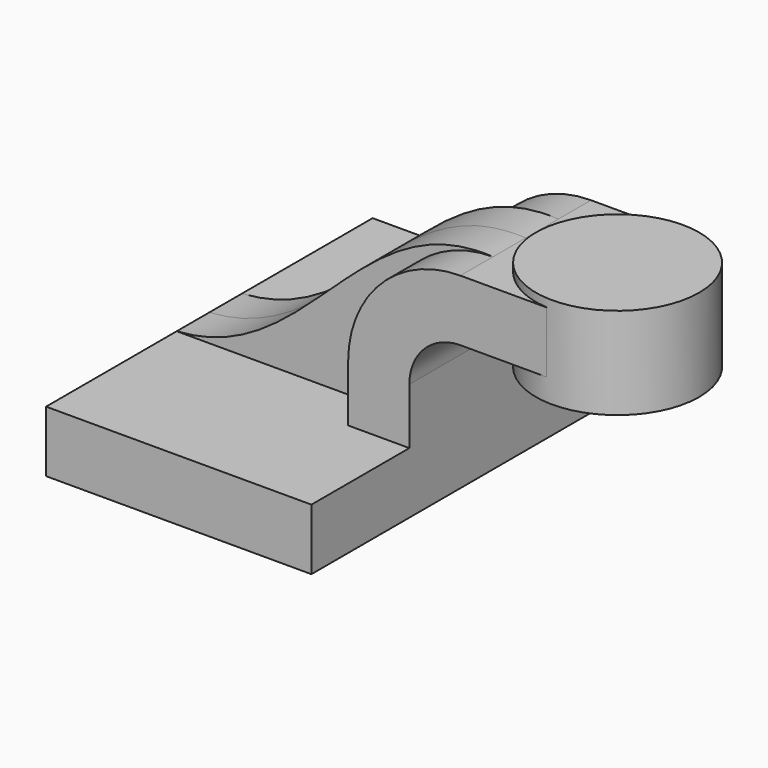
from build123d import *

# Parameters (mm, degrees)
F1_DEPTH = 63.5
F2_DEPTH = 12.7
F0_W     = 23.580307
F0_H     = 19.05
F3_DEPTH = 25.4
F0_W_2   = 25.4
F0_H_2   = 28.575


with BuildPart() as f1:
    # F0 (on Front) → F1 (new body, symmetric)
    with BuildSketch(Plane.XZ):
        Polygon((41.275, -9.525), (41.275, 9.525), (22.225, 9.525), (-41.275, 9.525), (-41.275, -9.525), align=None)
    extrude(amount=F1_DEPTH, both=True)

    # F0 (on Front) → F2 (join, symmetric)
    with BuildSketch(Plane.XZ):
        with BuildLine():
            Line((-41.275, 9.525), (22.225, 9.525))
            Line((22.225, 9.525), (22.225, 27.0002))
            ThreePointArc((22.225, 27.0002), (32.454296, 51.695904), (57.15, 61.9252))
            add(Edge.make_bspline(
                [(-41.275, 9.525), (0.105267, 11.943228), (14.862967, 64.384811), (57.15, 61.9252)],
                knots=[0, 0, 0, 0, 111.504536, 111.504536, 111.504536, 111.504536], degree=3))
        make_face()
    extrude(amount=F2_DEPTH, both=True)

    # F0 (on Front) → F3 (join, symmetric)
    with BuildSketch(Plane.XZ):
        with BuildLine():
            Line((22.225, 9.525), (41.275, 9.525))
            Line((41.275, 9.525), (41.275, 27.0002))
            ThreePointArc((41.275, 27.0002), (45.92468, 38.22552), (57.15, 42.8752))
            Line((57.15, 42.8752), (60.325, 42.8752))
            Line((60.325, 42.8752), (60.325, 61.9252))
            Line((60.325, 61.9252), (57.15, 61.9252))
            ThreePointArc((57.15, 61.9252), (32.454296, 51.695904), (22.225, 27.0002))
            Line((22.225, 27.0002), (22.225, 9.525))
        make_face()
        with Locations((72.115153, 52.4002)):
            Rectangle(F0_W, F0_H)
    extrude(amount=F3_DEPTH, both=True)

    # F0 (on Front) → F4 (revolve)
    with BuildSketch(Plane.XZ):
        with Locations((98.425, 50.186728)):
            Rectangle(F0_W_2, F0_H_2)
    revolve(axis=Axis((85.725, 0, 50.186728), (0, 0, -1)))


solid = f1.part
